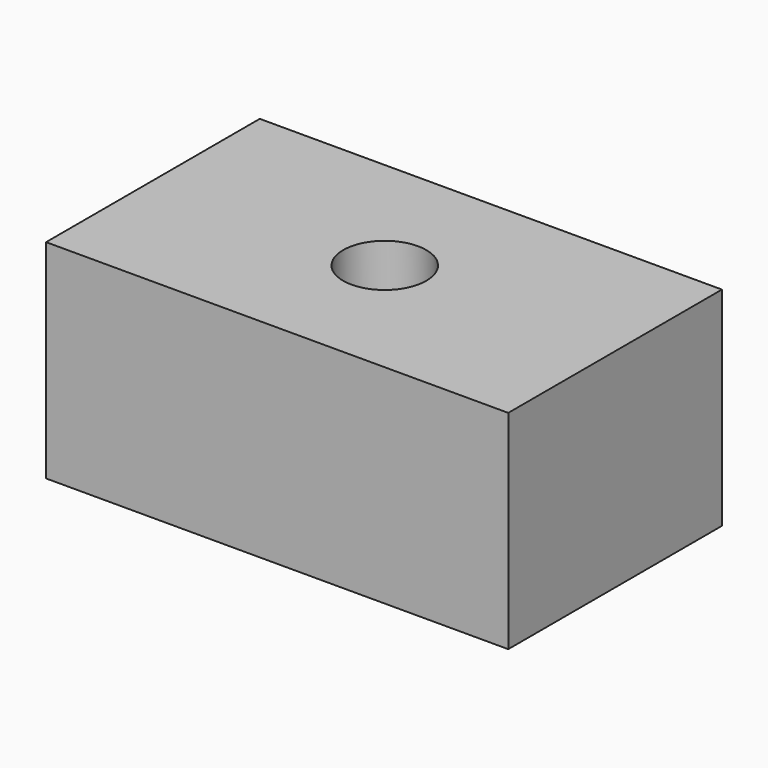
from build123d import *

# Parameters (mm, degrees)
F0_W     = 55.539488
F0_H     = 32.094934
F1_DEPTH = 25
F3_DEPTH = 10
F4_DEPTH = 10


with BuildPart() as f1:
    # F0 (on Top) → F1 (new body)
    with BuildSketch(Plane.XY):
        Rectangle(F0_W, F0_H)
    extrude(amount=-F1_DEPTH)

    # F2 (on face) → F3 (cut)
    with BuildSketch(Plane.XY):
        with BuildLine():
            ThreePointArc((0, 5.113803), (-5, 0.113803), (0, -4.886197))
            Line((0, -4.886197), (0, 5.113803))
        make_face()
    extrude(amount=-F3_DEPTH, mode=Mode.SUBTRACT)

    # F2 (on face) → F4 (cut)
    with BuildSketch(Plane.XY):
        with BuildLine():
            Line((0, 5.113803), (0, -4.886197))
            ThreePointArc((0, -4.886197), (5, 0.113803), (0, 5.113803))
        make_face()
    extrude(amount=-F4_DEPTH, mode=Mode.SUBTRACT)


solid = f1.part
